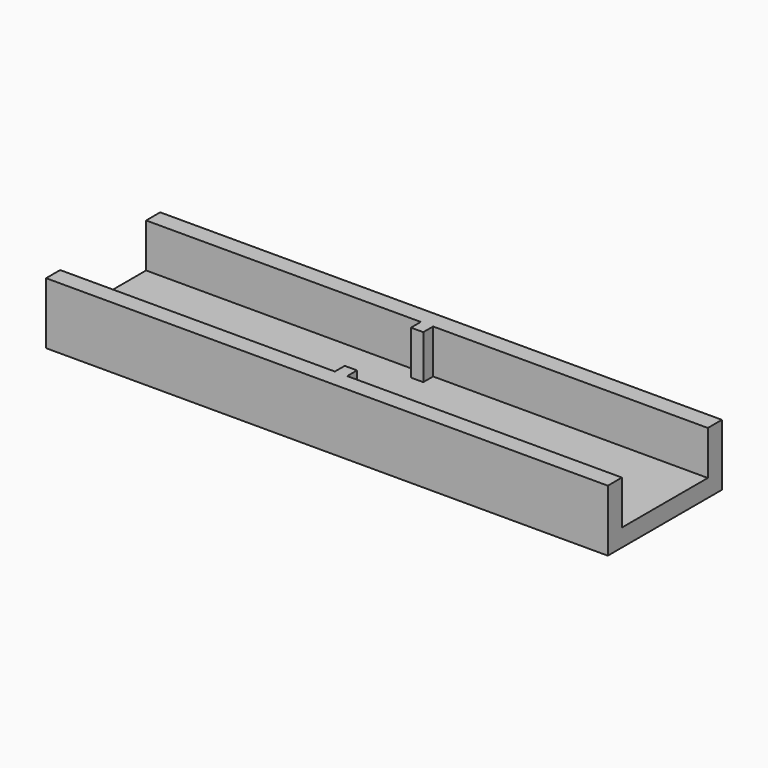
from build123d import *

# Parameters (mm, degrees)
SKETCH_W     = 63.8
SKETCH_H     = 16.2
PAD_DEPTH    = 7
THICKNESS_T  = -2
SKETCH001_W  = 1.4
SKETCH001_H  = 1.4
PAD001_DEPTH = 5


with BuildPart() as part:
    # Sketch → Pad (new body)
    with BuildSketch(Plane.XY):
        with Locations((31.9, 8.1)):
            Rectangle(SKETCH_W, SKETCH_H)
    extrude(amount=PAD_DEPTH)

    # Thickness
    thickness_openings = [part.faces().sort_by_distance(p)[0] for p in [
        (31.9, 8.1, 7),
        (63.8, 8.1, 3.5),
        (0, 8.1, 3.5),
    ]]
    offset(amount=THICKNESS_T, openings=thickness_openings)

    # Sketch001 (on Face10 of Thickness) → Pad001 (join)
    with BuildSketch(Plane.XY.offset(2)):
        with Locations((31.9, 13.5)):
            Rectangle(SKETCH001_W, SKETCH001_H)
        with Locations((31.9, 2.7)):
            Rectangle(SKETCH001_W, SKETCH001_H)
    extrude(amount=PAD001_DEPTH)


solid = part.part
